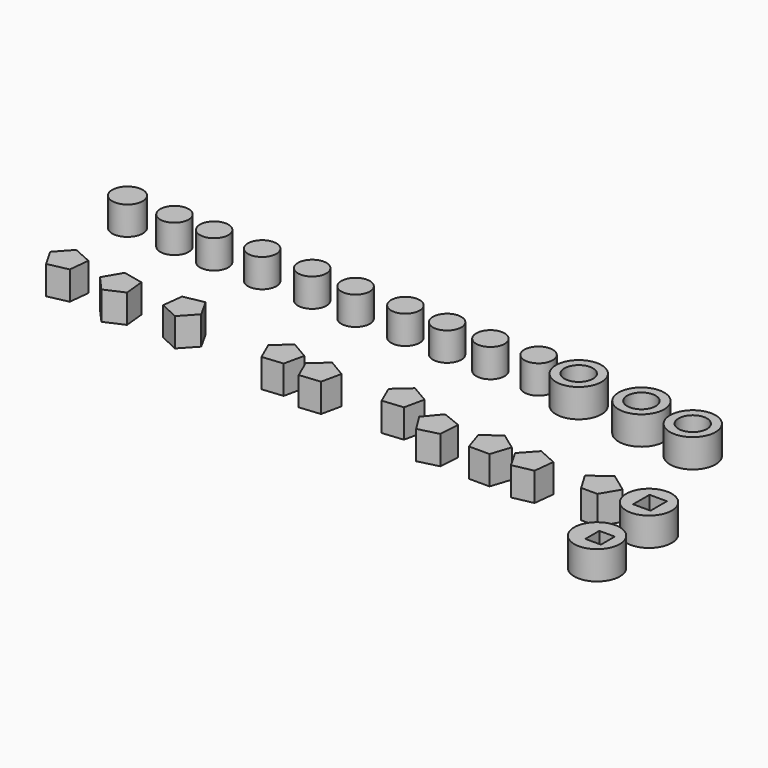
from build123d import *

# Parameters (mm, degrees)
F0_R     = 3.175
F0_R_2   = 5.08
F0_R_3   = 3.407771
F0_W     = 3.879264
F0_H     = 4.572002
F0_W_2   = 3.463634
F0_H_2   = 3.879272
F1_DEPTH = 6.35


with BuildPart() as f1:
    # F0 (on Top) → F1 (new body)
    with BuildSketch(Plane.XY):
        with Locations((-53.369883, 48.38503)):
            Circle(F0_R)
        with Locations((-42.435167, 48.077005)):
            Circle(F0_R)
        with Locations((-31.038418, 47.768985)):
            Circle(F0_R)
        with Locations((-20.873752, 47.152949)):
            Circle(F0_R)
        with Locations((-62.414728, 48.629455)):
            Circle(F0_R)
        with Locations((-9.628909, 46.96691)):
            Circle(F0_R)
        with Locations((0, 46.551272)):
            Circle(F0_R)
        with Locations((9.767455, 46.412729)):
            Circle(F0_R)
        with Locations((20.158364, 46.828363)):
            Circle(F0_R)
        with Locations((29.995091, 45.720004)):
            Circle(F0_R_2)
        with Locations((29.995091, 45.720004)):
            Circle(F0_R, mode=Mode.SUBTRACT)
        with Locations((44.957999, 44.473089)):
            Circle(F0_R_2)
        with Locations((44.957999, 44.473089)):
            Circle(F0_R, mode=Mode.SUBTRACT)
        with Locations((57.28855, 43.36473)):
            Circle(F0_R_2)
        with Locations((57.28855, 43.36473)):
            Circle(F0_R, mode=Mode.SUBTRACT)
        Polygon((-68.175277, 20.073463), (-63.662324, 21.031615), (-63.179001, 25.619773), (-67.393244, 27.497259), (-70.481112, 24.069452), align=None)
        with Locations((-73.221274, 49.045093)):
            Circle(F0_R_3)
        Polygon((-54.665676, 18.585401), (-50.438943, 20.434596), (-50.8915, 25.025891), (-55.397928, 26.014272), (-57.730498, 22.03383), align=None)
        Polygon((-42.567015, 20.672106), (-38.381097, 18.73229), (-35.242702, 22.113898), (-37.488986, 26.143664), (-42.01566, 25.252587), align=None)
        Polygon((-17.029436, 16.124032), (-12.438141, 16.576589), (-11.44976, 21.083018), (-15.430202, 23.415587), (-18.878631, 20.350766), align=None)
        Polygon((-7.699202, 14.851433), (-3.107907, 15.303989), (-2.119526, 19.810418), (-6.099968, 22.142988), (-9.548397, 19.078166), align=None)
        Polygon((32.229875, 12.331741), (36.84342, 12.331741), (38.269084, 16.719483), (34.536648, 19.431257), (30.804212, 16.719483), align=None)
        Polygon((42.3453, 11.399708), (46.86372, 12.331741), (47.373572, 16.917027), (43.170259, 18.818857), (40.062616, 15.408966), align=None)
        Polygon((9.605324, 16.316232), (14.196619, 16.768789), (15.185, 21.275217), (11.204559, 23.607787), (7.756129, 20.542965), align=None)
        Polygon((20.941445, 11.763684), (25.412915, 12.899798), (25.714167, 17.503497), (21.42888, 19.212626), (18.479176, 15.665226), align=None)
        Polygon((57.24342, 12.331741), (60.858813, 12.331741), (63.258285, 16.37457), (59.051116, 19.431257), (54.843948, 16.37457), align=None)
        with Locations((69.82021, 15.51709)):
            Circle(F0_R_2)
        with Locations((70.097297, 15.447819)):
            Rectangle(F0_W, F0_H, mode=Mode.SUBTRACT)
        with Locations((70.651487, 0)):
            Circle(F0_R_2)
        with Locations((71.552027, -0.277091)):
            Rectangle(F0_W_2, F0_H_2, mode=Mode.SUBTRACT)
    extrude(amount=F1_DEPTH)


solid = f1.part
